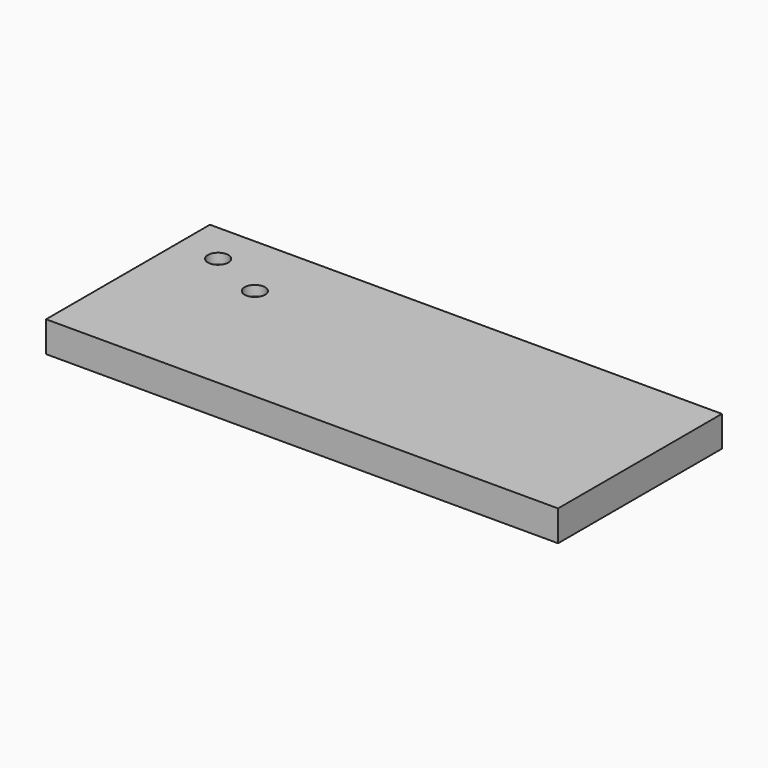
from build123d import *

# Parameters (mm, degrees)
F0_W           = 250
F0_H           = 100
F1_DEPTH       = 15
F3_D           = 5
F3_DEPTH       = 12
F3_CBORE_D     = 10
F3_CBORE_DEPTH = 5
F3_TIP         = 1.5021515476


with BuildPart() as f1:
    # F0 (on Top) → F1 (new body)
    with BuildSketch(Plane.XY):
        with Locations((1.4713872279, 1.8220841885)):
            Rectangle(F0_W, F0_H)
    extrude(amount=F1_DEPTH)

    # F3
    with Locations(Plane.XY.offset(15)):
        with Locations((-103.5286127721, 31.8220841885), (-75.9812488966, 19.8097003586)):
            CounterBoreHole(F3_D / 2, F3_CBORE_D / 2, F3_CBORE_DEPTH, depth=F3_DEPTH)
            with Locations((0, 0, -(F3_DEPTH + F3_TIP / 2))):  # 118° drill point
                Cone(0, F3_D / 2, F3_TIP, mode=Mode.SUBTRACT)


solid = f1.part
